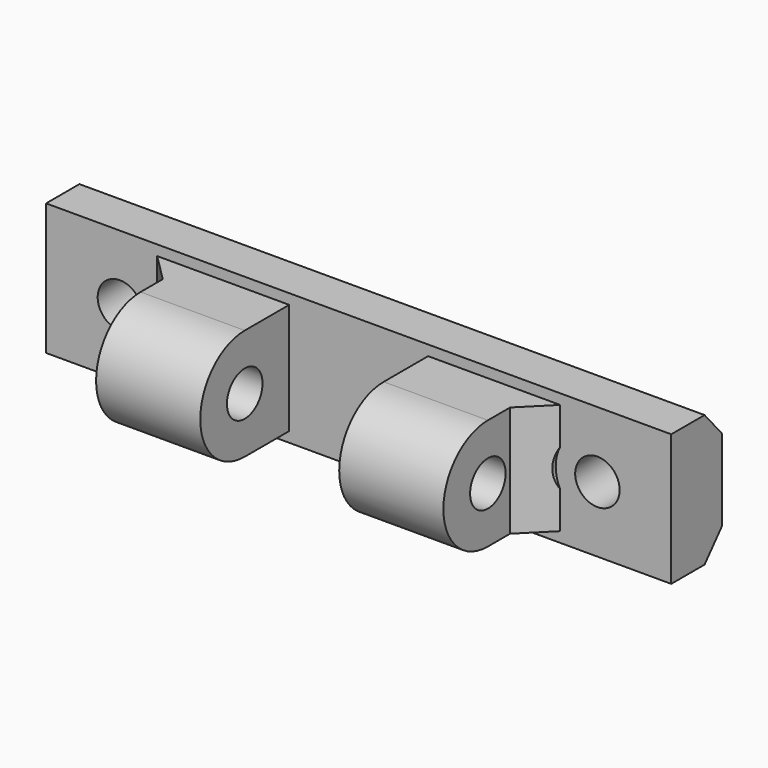
from build123d import *

# Parameters (mm, degrees)
SKETCH_W           = 45
SKETCH_H           = 3
PAD_DEPTH          = 20
PAD001_DEPTH       = 45
SKETCH002_R        = 1.6
POCKET_DEPTH       = 4.561
SKETCH004_R        = 1.6
PAD002_DEPTH       = 45
PAD002_FACE9_R     = 1.6
POCKET001_DEPTH    = 10
POCKET001_FACE14_R = 1.6
POCKET002_DEPTH    = 10
SKETCH005_W        = 10
SKETCH005_H        = 8
POCKET003_DEPTH    = 20.001
SKETCH006_W        = 3
SKETCH006_H        = 5.26
POCKET004_DEPTH    = 45.001
CHAMFER_SIZE       = 2
SKETCH007_R        = 3
POCKET005_DEPTH    = 8.001


with BuildPart() as part:
    # Sketch → Pad (new body)
    with BuildSketch(Plane.XY):
        Rectangle(SKETCH_W, SKETCH_H)
    extrude(amount=PAD_DEPTH)

    # Sketch001 (on Face2 of Pad) → Pad001 (join)
    with BuildSketch(Plane.YZ.offset(22.5)):
        Polygon((1.5, 10), (1.5, 14.74), (3.06, 12.94), (3.06, 7.06), (1.5, 5.26), align=None)
    extrude(amount=-PAD001_DEPTH)

    # Sketch002 (on Face6 of Pad001) → Pocket (cut, through all)
    with BuildSketch(Plane.XZ.offset(1.5)):
        with Locations((-17.186, 10)):
            Circle(SKETCH002_R)
        with Locations((17.186, 10)):
            Circle(SKETCH002_R)
    extrude(amount=-POCKET_DEPTH, mode=Mode.SUBTRACT)

    # Sketch004 (on Face3 of Pocket) → Pad002 (join)
    with BuildSketch(Plane.YZ.offset(22.5)):
        with BuildLine():
            ThreePointArc((-5.5, 14), (-9.5, 10), (-5.5, 6))
            Line((-5.5, 6), (-1.5, 6))
            Line((-1.5, 14), (-1.5, 6))
            Line((-1.5, 14), (-5.5, 14))
        make_face()
        with Locations((-5.5, 10)):
            Circle(SKETCH004_R, mode=Mode.SUBTRACT)
    extrude(amount=-PAD002_DEPTH)

    # Pad002 Face9 → Pocket001 (cut)
    with BuildSketch(Plane(origin=(22.5, -5.065426, 10), x_dir=(0, -1, 0), z_dir=(1, 0, 0))):
        with BuildLine():
            ThreePointArc((0.434574, -4), (4.434574, 0), (0.434574, 4))
            Line((0.434574, 4), (-3.565426, 4))
            Line((-3.565426, 4), (-3.565426, -4))
            Line((-3.565426, -4), (0.434574, -4))
        make_face()
        with Locations((0.434574, 0)):
            Circle(PAD002_FACE9_R, mode=Mode.SUBTRACT)
    extrude(amount=-POCKET001_DEPTH, mode=Mode.SUBTRACT)

    # Pocket001 Face14 → Pocket002 (cut)
    with BuildSketch(Plane(origin=(-22.5, -5.065426, 10), x_dir=(0, 1, 0), z_dir=(-1, 0, 0))):
        with BuildLine():
            ThreePointArc((-0.434574, 4), (-4.434574, 0), (-0.434574, -4))
            Line((-0.434574, -4), (3.565426, -4))
            Line((3.565426, -4), (3.565426, 4))
            Line((3.565426, 4), (-0.434574, 4))
        make_face()
        with Locations((-0.434574, 0)):
            Circle(POCKET001_FACE14_R, mode=Mode.SUBTRACT)
    extrude(amount=-POCKET002_DEPTH, mode=Mode.SUBTRACT)

    # Sketch005 (on Face2 of Pocket002) → Pocket003 (cut, through all)
    with BuildSketch(Plane(origin=(0, 0, 0), x_dir=(1, 0, 0), z_dir=(0, 0, -1))):
        with Locations((0, 5.5)):
            Rectangle(SKETCH005_W, SKETCH005_H)
    extrude(amount=-POCKET003_DEPTH, mode=Mode.SUBTRACT)

    # Sketch006 (on Face5 of Pocket003) → Pocket004 (cut, through all)
    with BuildSketch(Plane(origin=(-22.5, 0, 0), x_dir=(0, -1, 0), z_dir=(-1, 0, 0))):
        with Locations((0, 17.37)):
            Rectangle(SKETCH006_W, SKETCH006_H)
        with Locations((0, 2.63)):
            Rectangle(SKETCH006_W, SKETCH006_H)
    extrude(amount=-POCKET004_DEPTH, mode=Mode.SUBTRACT)

    # Chamfer
    chamfer_edges = [part.edges().sort_by_distance(p)[0] for p in [
        (-12.5, -1.5, 10),
        (12.5, -1.5, 10),
    ]]
    chamfer(chamfer_edges, length=CHAMFER_SIZE)

    # Sketch007 (on Face29 of Chamfer) → Pocket005 (cut, through all)
    with BuildSketch(Plane.XZ.offset(1.5)):
        with Locations((-17.186, 10)):
            Circle(SKETCH007_R)
        with Locations((17.186, 10)):
            Circle(SKETCH007_R)
    extrude(amount=POCKET005_DEPTH, mode=Mode.SUBTRACT)


solid = part.part
